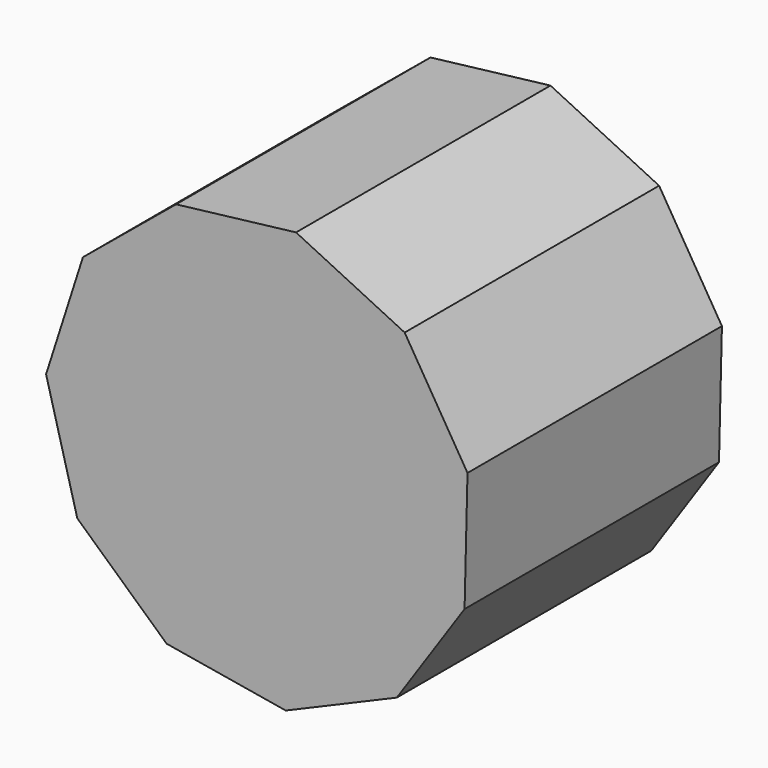
from build123d import *

# Parameters (mm, degrees)
F1_DEPTH = 100


with BuildPart() as f1:
    # F0 (on Front) → F1 (new body)
    with BuildSketch(Plane.XZ):
        Polygon((65.12177, 17.418353), (45.366846, 49.860738), (11.208269, 66.472691), (-26.508854, 61.980034), (-55.809603, 37.809154), (-67.391198, 1.634135), (-57.576563, -35.05971), (-29.481777, -60.622346), (7.973266, -66.937814), (42.896852, -52.001), (64.200992, -20.554235), align=None)
    extrude(amount=-F1_DEPTH)


solid = f1.part
